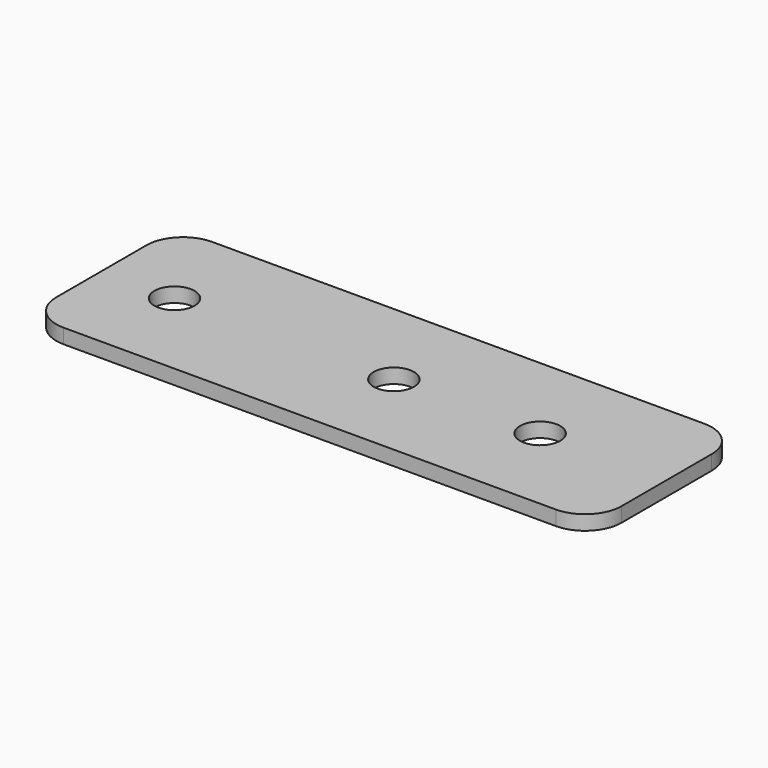
from build123d import *

# Parameters (mm, degrees)
F0_W     = 77.3
F0_H     = 25.4
F1_DEPTH = 2
F3_D     = 5.5
F4_R     = 5


with BuildPart() as f1:
    # F0 (on Top) → F1 (new body)
    with BuildSketch(Plane.XY):
        with Locations((38.65, 12.7)):
            Rectangle(F0_W, F0_H)
    extrude(amount=F1_DEPTH)

    # F3 (through all)
    with Locations(Plane.XY.offset(2)):
        with Locations((10, 12.7), (40, 12.7), (60, 12.7)):
            Hole(F3_D / 2)

    # F4
    f4_edges = [f1.edges().sort_by_distance(p)[0] for p in [
        (0, 25.4, 1),
        (0, 0, 1),
        (77.3, 0, 1),
        (77.3, 25.4, 1),
    ]]
    fillet(f4_edges, radius=F4_R)


solid = f1.part
